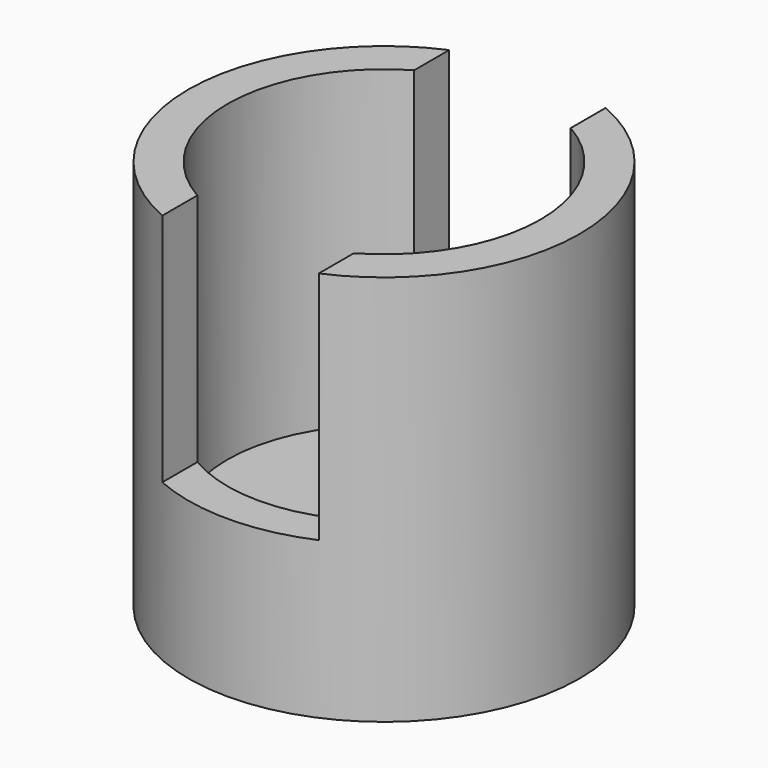
from build123d import *

# Parameters (mm, degrees)
F0_R     = 2.5
F1_DEPTH = 5
F2_R     = 2
F3_DEPTH = 4
F5_DEPTH = 3
F6_W     = 2
F6_H     = 1.83
F7_DEPTH = 3


with BuildPart() as f1:
    # F0 (on Top) → F1 (new body)
    with BuildSketch(Plane.XY):
        Circle(F0_R)
    extrude(amount=F1_DEPTH)

    # F2 (on face) → F3 (cut)
    with BuildSketch(Plane.XY.offset(5)):
        Circle(F2_R)
    extrude(amount=-F3_DEPTH, mode=Mode.SUBTRACT)

    # F4 (on face) → F5 (cut)
    with BuildSketch(Plane.XY.offset(5)):
        with BuildLine():
            ThreePointArc((-1, -2.2912878475), (0, -2.5), (1, -2.2912878475))
            Line((1, -2.2912878475), (1, -1.7320508076))
            ThreePointArc((1, -1.7320508076), (0, -2), (-1, -1.7320508076))
            Line((-1, -1.7320508076), (-1, -2.2912878475))
        make_face()
    extrude(amount=-F5_DEPTH, mode=Mode.SUBTRACT)

    # F6 (on face) → F7 (cut)
    with BuildSketch(Plane.XY.offset(5)):
        with Locations((0, 2)):
            Rectangle(F6_W, F6_H)
    extrude(amount=-F7_DEPTH, mode=Mode.SUBTRACT)


solid = f1.part
